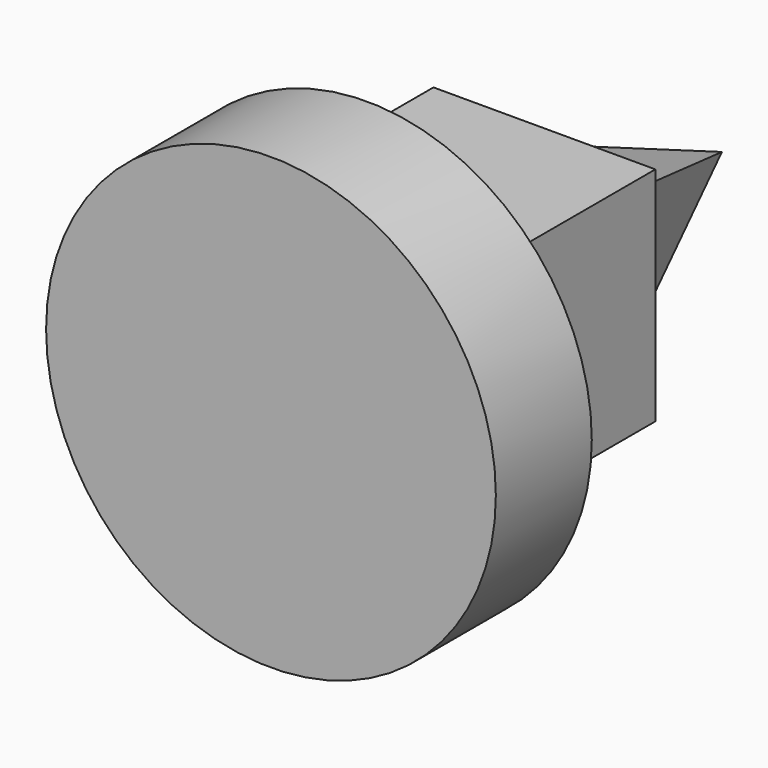
from build123d import *

# Parameters (mm, degrees)
F0_R     = 37.5
F1_DEPTH = 20
F2_W     = 37
F2_H     = 37
F3_DEPTH = 37
F4_W     = 25
F4_H     = 25


with BuildPart() as f1:
    # F0 (on Front) → F1 (new body)
    with BuildSketch(Plane.XZ):
        Circle(F0_R)
    extrude(amount=-F1_DEPTH)

    # F2 (on face) → F3 (join)
    with BuildSketch(Plane(origin=(0, 20, 0), x_dir=(-1, 0, 0), z_dir=(0, 1, 0))):
        Rectangle(F2_W, F2_H)
    extrude(amount=F3_DEPTH)

    # F4 (on face) → F8 section 0
    with BuildSketch(Plane(origin=(0, 57, 0), x_dir=(-1, 0, 0), z_dir=(0, 1, 0)), mode=Mode.PRIVATE) as f8_s0:
        Rectangle(F4_W, F4_H)
    loft([f8_s0.sketch, Vertex(0, 94, 0)])


solid = f1.part
